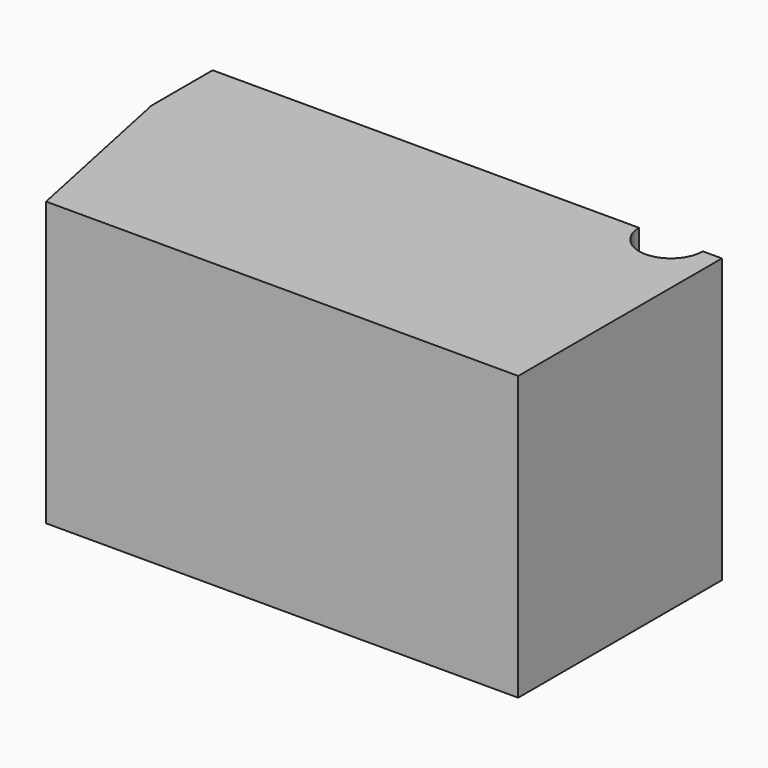
from build123d import *

# Parameters (mm, degrees)
EXTRUDE001_DEPTH = 4
EXTRUDE002_DEPTH = 4
EXTRUDE003_DEPTH = 44.5
EXTRUDE_DEPTH    = 36.5
CHAMFER_SIZE     = 3
CHAMFER001_SIZE  = 3
CHAMFER002_SIZE  = 3
CHAMFER003_SIZE  = 3


with BuildPart() as extrude001:
    # Sketch001 (on Face14 of Extrude) → Extrude001 (new body)
    with BuildSketch(Plane.XY.offset(36.5)):
        Polygon((-33, 36), (33, 36), (33, 24), (27.166667, -4), (-27.166667, -4), (-33, 24), align=None)
    extrude(amount=EXTRUDE001_DEPTH)


with BuildPart() as extrude002:
    # Sketch002 (on Face13 of Extrude) → Extrude002 (new body)
    with BuildSketch(Plane(origin=(0, 0, 0), x_dir=(1, 0, 0), z_dir=(0, 0, -1))):
        Polygon((-33, -36), (-33, -24), (-27.166667, 4), (27.166667, 4), (33, -24), (33, -36), align=None)
    extrude(amount=EXTRUDE002_DEPTH)


with BuildPart() as extrude003:
    # Sketch003 (on Face8 of Extrude002) → Extrude003 (new body)
    with BuildSketch(Plane(origin=(0, 0, -4), x_dir=(1, 0, 0), z_dir=(0, 0, -1))):
        with BuildLine():
            Line((27.166667, 4), (47, 4))
            Line((47, -36), (47, 4))
            Line((44, -36), (47, -36))
            ThreePointArc((44, -36), (39, -31), (34, -36))
            Line((33, -36), (34, -36))
            Line((33, -24), (33, -36))
            Line((27.166667, 4), (33, -24))
        make_face()
    extrude(amount=-EXTRUDE003_DEPTH)


with BuildPart() as chamfer003:
    # Sketch → Extrude (new body)
    with BuildSketch(Plane.XY):
        Polygon((-24, 0), (24, 0), (29, 24), (29, 36), (33, 36), (33, 24), (27.166667, -4), (-27.166667, -4), (-33, 24), (-33, 36), (-29, 36), (-29, 24), align=None)
    extrude(amount=EXTRUDE_DEPTH)

    # Fusion: union Extrude001, Extrude002, Extrude003
    add(extrude001.part)
    add(extrude002.part)
    add(extrude003.part)

    # Chamfer
    chamfer_edges = [chamfer003.edges().sort_by_distance(p)[0] for p in [
        (0, 36, 36.5),
    ]]
    chamfer(chamfer_edges, length=CHAMFER_SIZE)

    # Chamfer001
    chamfer001_edges = [chamfer003.edges().sort_by_distance(p)[0] for p in [
        (0, 36, 0),
    ]]
    chamfer(chamfer001_edges, length=CHAMFER001_SIZE)

    # Chamfer002
    chamfer002_edges = [chamfer003.edges().sort_by_distance(p)[0] for p in [
        (29, 36, 38),
        (29, 36, 18.25),
        (29, 36, -1.5),
    ]]
    chamfer(chamfer002_edges, length=CHAMFER002_SIZE)

    # Chamfer003
    chamfer003_edges = [chamfer003.edges().sort_by_distance(p)[0] for p in [
        (-29, 36, 38),
        (-29, 36, 18.25),
        (-29, 36, -1.5),
    ]]
    chamfer(chamfer003_edges, length=CHAMFER003_SIZE)


solid = chamfer003.part
